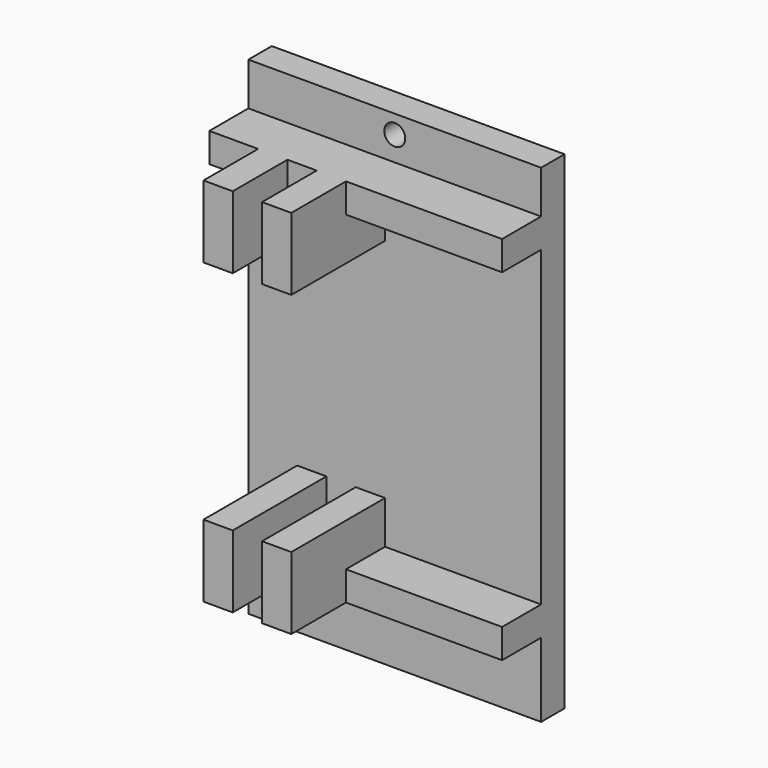
from build123d import *

# Parameters (mm, degrees)
F0_W      = 30
F0_H      = 3
F1_DEPTH  = 25
F2_W      = 30
F2_H      = 3
F3_DEPTH  = 5
F5_D      = 2.15
F5_DEPTH  = 29.55
F5_TIP    = 0.6459251655
F6_W      = 3
F6_H      = 4.4
F7_DEPTH  = 12
F8_W      = 3
F8_H      = 7
F9_DEPTH  = 3
F10_W     = 3
F10_H     = 7
F11_DEPTH = 3


with BuildPart() as f1:
    # F0 (on Top) → F1 (new body, symmetric)
    with BuildSketch(Plane.XY):
        Rectangle(F0_W, F0_H)
    extrude(amount=F1_DEPTH, both=True)

    # F2 (on face) → F3 (join)
    with BuildSketch(Plane.XZ.offset(1.5)):
        with Locations((0, 19.1)):
            Rectangle(F2_W, F2_H)
        with Locations((0, -15.9)):
            Rectangle(F2_W, F2_H)
    extrude(amount=F3_DEPTH)

    # F5
    with Locations(Plane.XZ.offset(1.5)):
        with Locations((0, 23.1)):
            Hole(F5_D / 2, depth=F5_DEPTH)
            with Locations((0, 0, -(F5_DEPTH + F5_TIP / 2))):  # 118° drill point
                Cone(0, F5_D / 2, F5_TIP, mode=Mode.SUBTRACT)

    # F6 (on face) → F7 (join)
    with BuildSketch(Plane.XZ.offset(1.5)):
        with Locations((-8.5, 15.4)):
            Rectangle(F6_W, F6_H)
        with Locations((-2.5, 15.4)):
            Rectangle(F6_W, F6_H)
        with Locations((-8.5, -12.2)):
            Rectangle(F6_W, F6_H)
        with Locations((-2.5, -12.2)):
            Rectangle(F6_W, F6_H)
    extrude(amount=F7_DEPTH)

    # F8 (on face) → F9 (join, through all)
    with BuildSketch(Plane.XY.offset(17.6)):
        with Locations((-8.5, -10)):
            Rectangle(F8_W, F8_H)
        with Locations((-2.5, -10)):
            Rectangle(F8_W, F8_H)
    extrude(amount=F9_DEPTH)

    # F10 (on face) → F11 (join, through all)
    with BuildSketch(Plane(origin=(0, 0, -14.4), x_dir=(1, 0, 0), z_dir=(0, 0, -1))):
        with Locations((-8.5, 10)):
            Rectangle(F10_W, F10_H)
        with Locations((-2.5, 10)):
            Rectangle(F10_W, F10_H)
    extrude(amount=F11_DEPTH)


solid = f1.part
